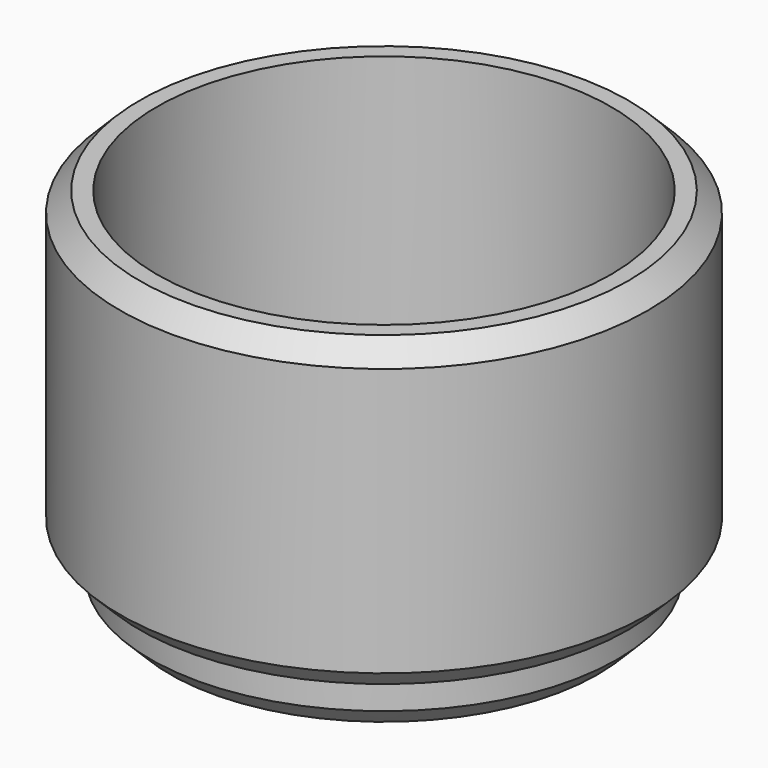
from build123d import *

# Parameters (mm, degrees)
F0_R     = 34.0995
F0_R_2   = 29.337
F1_DEPTH = 31.75
F0_R_3   = 25.527
F2_DEPTH = 7.9375
F3_R     = 30.1625
F3_R_2   = 25.4
F4_DEPTH = 6.35
F5_SIZE  = 2.54


with BuildPart() as f1:
    # F0 (on Top) → F1 (new body)
    with BuildSketch(Plane.XY):
        Circle(F0_R)
        Circle(F0_R_2, mode=Mode.SUBTRACT)
    extrude(amount=F1_DEPTH)

    # F0 (on Top) → F2 (join)
    with BuildSketch(Plane.XY):
        Circle(F0_R)
        Circle(F0_R_2, mode=Mode.SUBTRACT)
        Circle(F0_R_2)
        Circle(F0_R_3, mode=Mode.SUBTRACT)
    extrude(amount=-F2_DEPTH)

    # F3 (on face) → F4 (join)
    with BuildSketch(Plane(origin=(0, 0, -7.9375), x_dir=(1, 0, 0), z_dir=(0, 0, -1))):
        Circle(F3_R)
        Circle(F3_R_2, mode=Mode.SUBTRACT)
    extrude(amount=F4_DEPTH)

    # F5
    f5_edges = [f1.edges().sort_by_distance(p)[0] for p in [
        (-34.0995, 0, 31.75),
        (-34.0995, 0, -7.9375),
        (-30.1625, 0, -14.2875),
    ]]
    chamfer(f5_edges, length=F5_SIZE)


solid = f1.part
